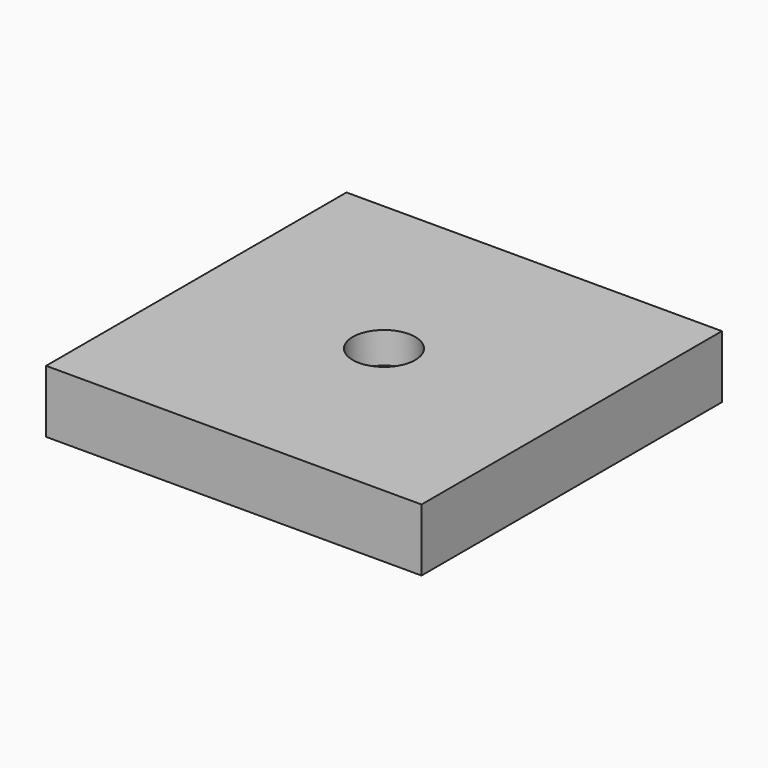
from build123d import *

# Parameters (mm, degrees)
F0_W     = 76.2
F0_H     = 76.2
F1_DEPTH = 6.35
F2_R     = 6.35
F3_DEPTH = 6.35


with BuildPart() as f1:
    # F0 (on Top) → F1 (new body, symmetric)
    with BuildSketch(Plane.XY):
        Rectangle(F0_W, F0_H)
    extrude(amount=F1_DEPTH, both=True)

    # F2 (on face) → F3 (cut)
    with BuildSketch(Plane.XY.offset(6.35)):
        Circle(F2_R)
    extrude(amount=-F3_DEPTH, mode=Mode.SUBTRACT)


solid = f1.part
